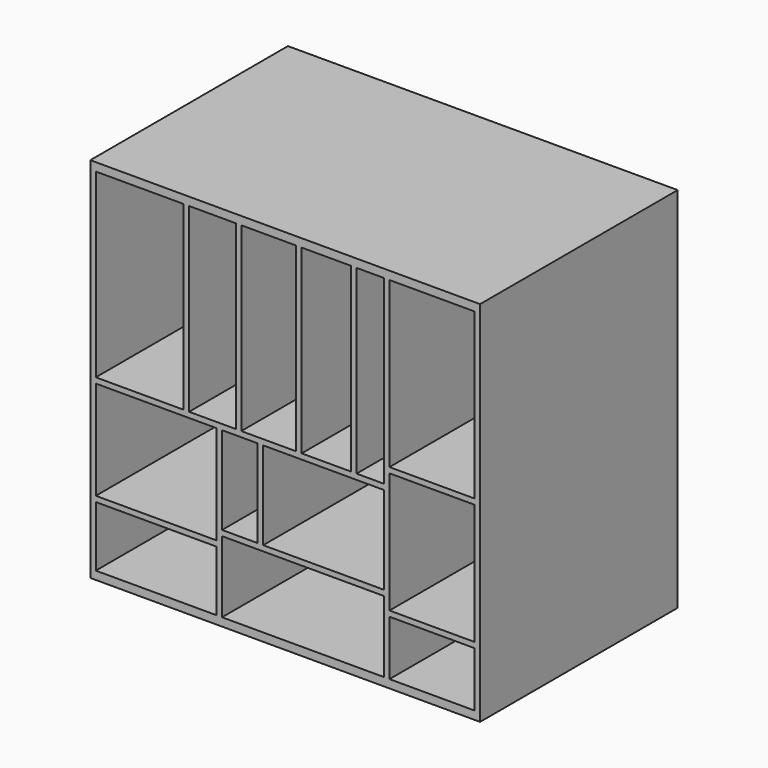
from build123d import *

# Parameters (mm, degrees)
F0_W     = 12.7
F0_H     = 419.1
F0_W_2   = 196.85
F0_H_2   = 12.7
F0_H_3   = 203.2
F0_W_3   = 31.75
F0_W_4   = 279.4
F1_DEPTH = 558.8
F2_W     = 901.7
F2_H     = 850.9
F3_DEPTH = 12.7


with BuildPart() as f1:
    # F0 (on Front) → F1 (new body)
    with BuildSketch(Plane.XZ):
        Polygon((0, 19.05), (0, 0), (901.7, 0), (901.7, 19.05), (889, 19.05), (692.15, 19.05), (679.45, 19.05), (304.8, 19.05), (292.1, 19.05), (12.7, 19.05), align=None)
        Polygon((0, 831.85), (0, 19.05), (12.7, 19.05), (12.7, 158.75), (12.7, 171.45), (12.7, 400.05), (12.7, 412.75), (12.7, 831.85), align=None)
        Polygon((889, 19.05), (901.7, 19.05), (901.7, 831.85), (889, 831.85), (889, 450.85), (889, 438.15), (889, 158.75), (889, 146.05), align=None)
        Polygon((0, 850.9), (0, 831.85), (12.7, 831.85), (215.9, 831.85), (228.6, 831.85), (336.55, 831.85), (349.25, 831.85), (476.25, 831.85), (488.95, 831.85), (603.25, 831.85), (615.95, 831.85), (679.45, 831.85), (692.15, 831.85), (889, 831.85), (901.7, 831.85), (901.7, 850.9), align=None)
        with Locations((222.25, 622.3)):
            Rectangle(F0_W, F0_H)
        with Locations((342.9, 622.3)):
            Rectangle(F0_W, F0_H)
        with Locations((482.6, 622.3)):
            Rectangle(F0_W, F0_H)
        with Locations((609.6, 622.3)):
            Rectangle(F0_W, F0_H)
        Polygon((679.45, 19.05), (692.15, 19.05), (692.15, 146.05), (692.15, 158.75), (692.15, 438.15), (692.15, 450.85), (692.15, 831.85), (679.45, 831.85), (679.45, 412.75), (679.45, 400.05), (679.45, 196.85), (679.45, 184.15), align=None)
        with Locations((790.575, 444.5)):
            Rectangle(F0_W_2, F0_H_2)
        with Locations((790.575, 152.4)):
            Rectangle(F0_W_2, F0_H_2)
        Polygon((304.8, 196.85), (304.8, 184.15), (679.45, 184.15), (679.45, 196.85), (400.05, 196.85), (387.35, 196.85), align=None)
        Polygon((679.45, 400.05), (679.45, 412.75), (615.95, 412.75), (603.25, 412.75), (488.95, 412.75), (476.25, 412.75), (349.25, 412.75), (336.55, 412.75), (336.55, 400.05), (387.35, 400.05), (400.05, 400.05), align=None)
        with Locations((393.7, 298.45)):
            Rectangle(F0_W, F0_H_3)
        with Locations((320.675, 406.4)):
            Rectangle(F0_W_3, F0_H_2)
        Polygon((215.9, 412.75), (12.7, 412.75), (12.7, 400.05), (292.1, 400.05), (304.8, 400.05), (304.8, 412.75), (228.6, 412.75), align=None)
        Polygon((292.1, 158.75), (292.1, 19.05), (304.8, 19.05), (304.8, 184.15), (304.8, 196.85), (304.8, 400.05), (292.1, 400.05), (292.1, 171.45), align=None)
        with Locations((152.4, 165.1)):
            Rectangle(F0_W_4, F0_H_2)
    extrude(amount=F1_DEPTH)

    # F2 (on face) → F3 (join)
    with BuildSketch(Plane(origin=(0, 0, 0), x_dir=(-1, 0, 0), z_dir=(0, 1, 0))):
        with Locations((-450.85, 425.45)):
            Rectangle(F2_W, F2_H)
    extrude(amount=F3_DEPTH)


solid = f1.part
